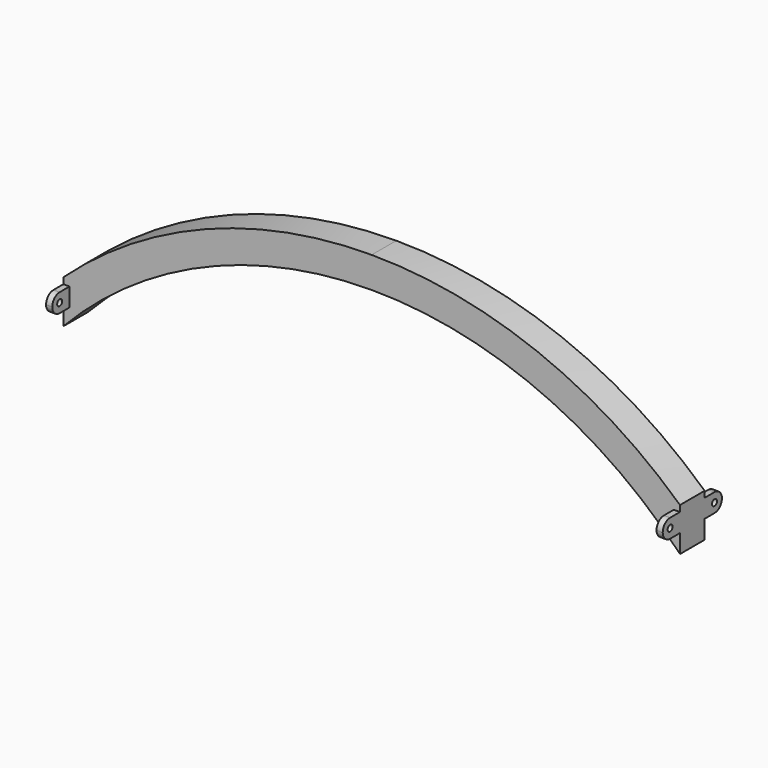
from build123d import *

# Parameters (mm, degrees)
F1_W     = 50
F1_H     = 50
F3_W     = 64.371526
F3_H     = 133.521259
F4_DEPTH = 91
F5_R     = 5
F6_DEPTH = 10


with BuildPart() as f2:
    # F2: sweep along a path in F0
    with BuildLine(Plane.XZ) as f2_path:
        ThreePointArc((0, 690), (272.034172, 634.111512), (500, 475.499737))
    # F1 (on Right) → F2 (sweep)
    with BuildSketch(Plane.YZ):
        with Locations((-25, 715)):
            Rectangle(F1_W, F1_H)
    sweep(path=f2_path.line)

    # F3 (on Front) → F4 (cut)
    with BuildSketch(Plane.XZ):
        with Locations((532.185763, 516.52947)):
            Rectangle(F3_W, F3_H)
    extrude(amount=F4_DEPTH, mode=Mode.SUBTRACT)

    # F5 (on face) → F6 (join)
    with BuildSketch(Plane.YZ.offset(500)):
        with BuildLine():
            Line((-50, 505.527268), (-50, 535.527268))
            Line((-50, 535.527268), (-70, 535.527268))
            ThreePointArc((-70, 535.527268), (-80.606602, 531.13387), (-85, 520.527268))
            ThreePointArc((-85, 520.527268), (-80.606602, 509.920666), (-70, 505.527268))
            Line((-70, 505.527268), (-50, 505.527268))
        make_face()
        with Locations((-70, 520.527268)):
            Circle(F5_R, mode=Mode.SUBTRACT)
        with BuildLine():
            Line((20, 535.527268), (0, 535.527268))
            Line((0, 535.527268), (0, 505.527268))
            Line((0, 505.527268), (20, 505.527268))
            ThreePointArc((20, 505.527268), (30.606602, 509.920666), (35, 520.527268))
            ThreePointArc((35, 520.527268), (30.606602, 531.13387), (20, 535.527268))
        make_face()
        with Locations((20, 520.527268)):
            Circle(F5_R, mode=Mode.SUBTRACT)
    extrude(amount=-F6_DEPTH)

    # F7: F2 across face


with BuildPart() as f2_1:
    add(f2.part)
    add(f2.part.mirror(Plane(origin=(0, -25, 715), x_dir=(0, -1, 0), z_dir=(-1, 0, 0))))


solid = f2_1.part
